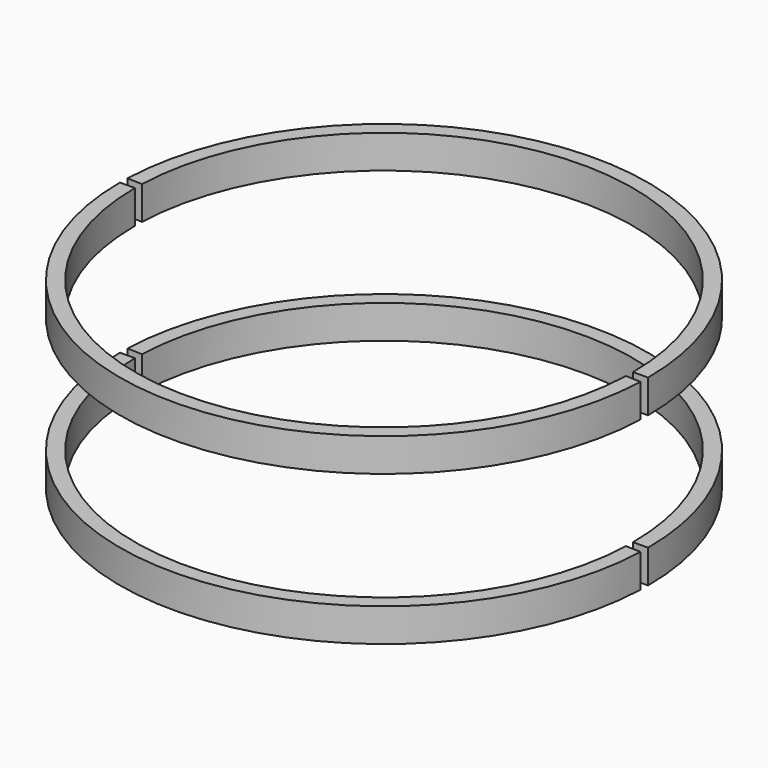
from build123d import *

# Parameters (mm, degrees)
CYLINDER081_R          = 22.45
CYLINDER081_DEPTH      = 17
CYLINDER080_W          = 23.8
CYLINDER080_H          = 3
CYLINDER080_ANGLE      = 178
CUT037_PLACEMENT_ANGLE = 180
CYLINDER079_R          = 22.45
CYLINDER079_DEPTH      = 17
CYLINDER078_W          = 23.8
CYLINDER078_H          = 3
CYLINDER078_ANGLE      = 178
CUT036_PLACEMENT_ANGLE = 180


with BuildPart() as cylinder081:
    # Cylinder081 → Cylinder081 (new body)
    with BuildSketch(Plane.XY):
        Circle(CYLINDER081_R)
    extrude(amount=CYLINDER081_DEPTH)


with BuildPart() as cylinder080:
    # Cylinder080 → Cylinder080 (revolve)
    with BuildSketch(Plane(origin=(0, 0, 1.8), x_dir=(1, 0, 0), z_dir=(0, -1, 0))):
        with Locations((11.9, 1.5)):
            Rectangle(CYLINDER080_W, CYLINDER080_H)
    revolve(axis=Axis((0, 0, 1.8), (0, 0, 1)), revolution_arc=CYLINDER080_ANGLE)


with BuildPart() as cut037:
    # Cut037 base: copy of Cylinder080
    add(cylinder080.part)

    # Cut037: cut Cylinder081
    add(cylinder081.part, mode=Mode.SUBTRACT)


with BuildPart() as cut037_1:
    # Cut037 placement: moved
    add(cut037.part.rotate(Axis((0, 0, 0), (0, 0, 1)), CUT037_PLACEMENT_ANGLE))


with BuildPart() as cylinder079:
    # Cylinder079 → Cylinder079 (new body)
    with BuildSketch(Plane.XY):
        Circle(CYLINDER079_R)
    extrude(amount=CYLINDER079_DEPTH)


with BuildPart() as cylinder078:
    # Cylinder078 → Cylinder078 (revolve)
    with BuildSketch(Plane(origin=(0, 0, 1.8), x_dir=(1, 0, 0), z_dir=(0, -1, 0))):
        with Locations((11.9, 1.5)):
            Rectangle(CYLINDER078_W, CYLINDER078_H)
    revolve(axis=Axis((0, 0, 1.8), (0, 0, 1)), revolution_arc=CYLINDER078_ANGLE)


with BuildPart() as fusion033:
    # Cut038 base: copy of Cylinder078
    add(cylinder078.part)

    # Cut038: cut Cylinder079
    add(cylinder079.part, mode=Mode.SUBTRACT)

    # Fusion033: union Cut037
    add(cut037_1.part)


with BuildPart() as cut036:
    # Cut036 base: copy of Cylinder080
    add(cylinder080.part)

    # Cut036: cut Cylinder081
    add(cylinder081.part, mode=Mode.SUBTRACT)


with BuildPart() as cut036_1:
    # Cut036 placement: moved
    add(cut036.part.rotate(Axis((0, 0, 0), (0, 0, 1)), CUT036_PLACEMENT_ANGLE))


with BuildPart() as obj1:
    # Cut035 base: copy of Cylinder078
    add(cylinder078.part)

    # Cut035: cut Cylinder079
    add(cylinder079.part, mode=Mode.SUBTRACT)

    # Fusion032: union Cut036
    add(cut036_1.part)


with BuildPart() as obj1_1:
    # Fusion032 placement: moved
    add(obj1.part.moved(Location((0, 0, 13.5))))

    # Fusion034: union Fusion033
    add(fusion033.part)


solid = obj1_1.part
